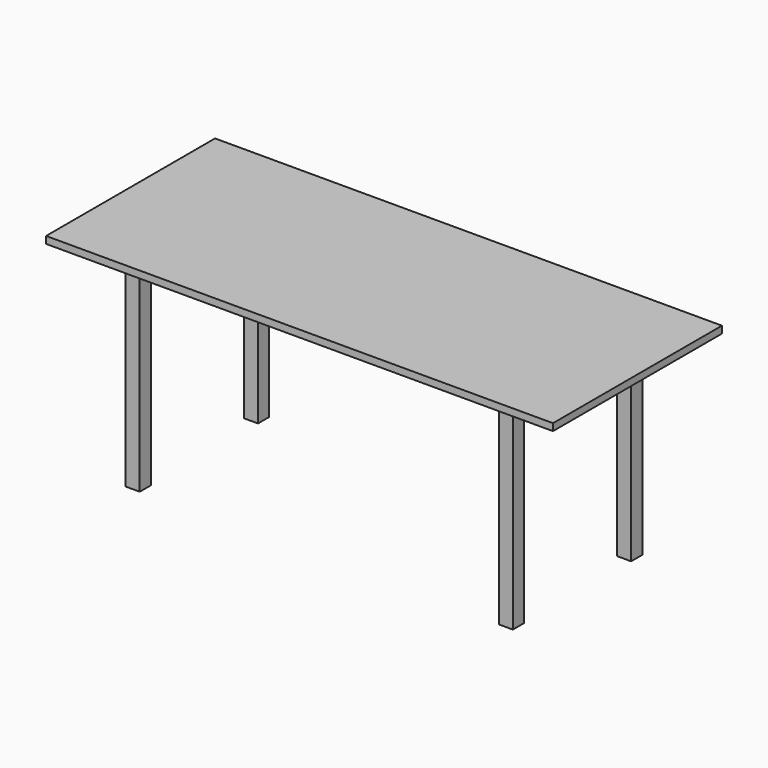
from build123d import *

# Parameters (mm, degrees)
F0_W     = 1828.8
F0_H     = 762
F1_DEPTH = 25.4
F2_W     = 50.8
F2_H     = 50.8
F3_DEPTH = 762


with BuildPart() as f1:
    # F0 (on Top) → F1 (new body)
    with BuildSketch(Plane.XY):
        Rectangle(F0_W, F0_H)
    extrude(amount=-F1_DEPTH)

    # F2 (on Top) → F3 (join)
    with BuildSketch(Plane.XY):
        with Locations((673.1, 266.7)):
            Rectangle(F2_W, F2_H)
        with Locations((673.1, -266.7)):
            Rectangle(F2_W, F2_H)
        with Locations((-673.1, -266.7)):
            Rectangle(F2_W, F2_H)
        with Locations((-673.1, 266.7)):
            Rectangle(F2_W, F2_H)
    extrude(amount=-F3_DEPTH)


solid = f1.part
